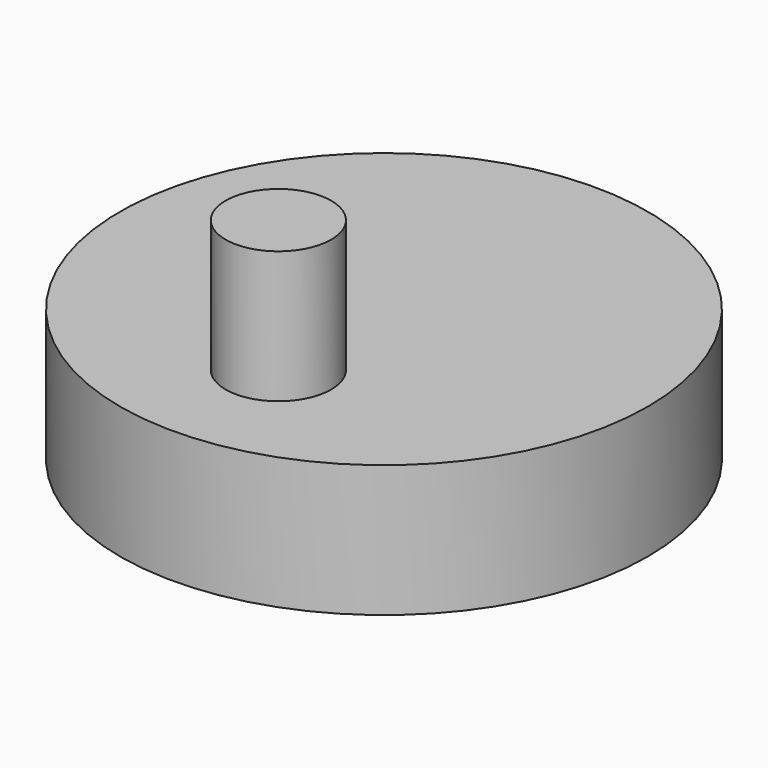
from build123d import *

# Parameters (mm, degrees)
F0_R     = 20
F1_DEPTH = 10
F2_R     = 4
F3_DEPTH = 10
F4_R     = 4
F5_DEPTH = 10


with BuildPart() as f1:
    # F0 (on Top) → F1 (new body)
    with BuildSketch(Plane.XY):
        with Locations((-38.417947, 0)):
            Circle(F0_R)
    extrude(amount=F1_DEPTH)

    # F2 (on face) → F3 (join)
    with BuildSketch(Plane(origin=(0, 0, 0), x_dir=(1, 0, 0), z_dir=(0, 0, -1))):
        with Locations((-38.417947, -10)):
            Circle(F2_R)
    extrude(amount=F3_DEPTH)

    # F4 (on face) → F5 (join)
    with BuildSketch(Plane.XY.offset(10)):
        with Locations((-38.417947, -10)):
            Circle(F4_R)
    extrude(amount=F5_DEPTH)


solid = f1.part
